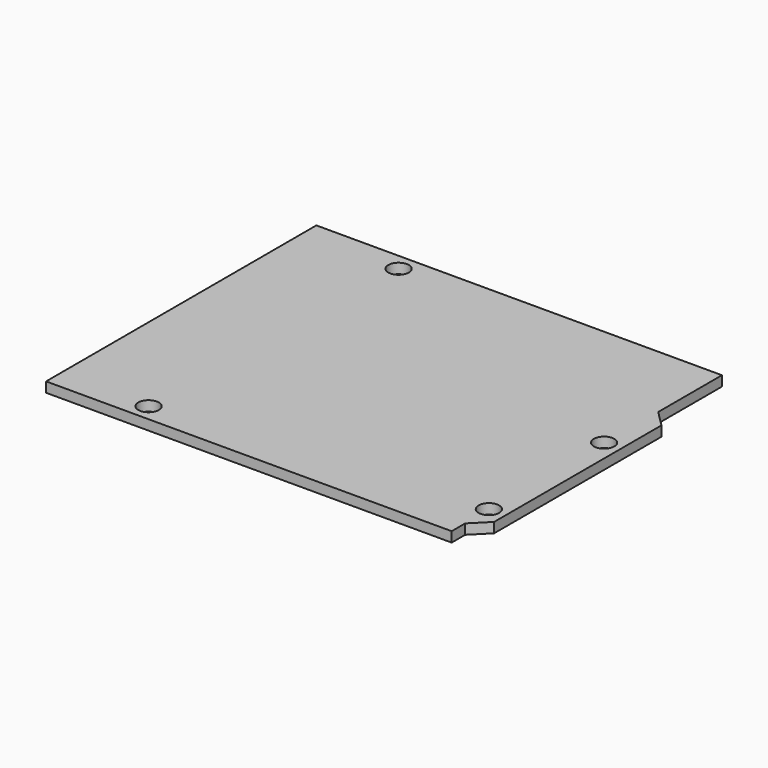
from build123d import *

# Parameters (mm, degrees)
F1_DEPTH = 0.794
F2_R     = 1.6195
F3_DEPTH = 25


with BuildPart() as f1:
    # F0 (on Top) → F1 (new body, symmetric)
    with BuildSketch(Plane.XY):
        Polygon((32.02, 26.67), (-32.02, 26.67), (-32.02, 0), (-32.02, -26.67), (32.02, -26.67), (32.02, -24.003), (34.56, -21.463), (34.56, 11.557), (32.02, 14.097), align=None)
    extrude(amount=F1_DEPTH, both=True)

    # F2 (on face) → F3 (cut)
    with BuildSketch(Plane.XY.offset(0.794)):
        with Locations((-16.863, 23.959)):
            Circle(F2_R)
        with Locations((-18.006, -23.959)):
            Circle(F2_R)
        with Locations((31.925, 3.538941)):
            Circle(F2_R)
        with Locations((31.925, -19.209)):
            Circle(F2_R)
    extrude(amount=-F3_DEPTH, mode=Mode.SUBTRACT)


solid = f1.part
